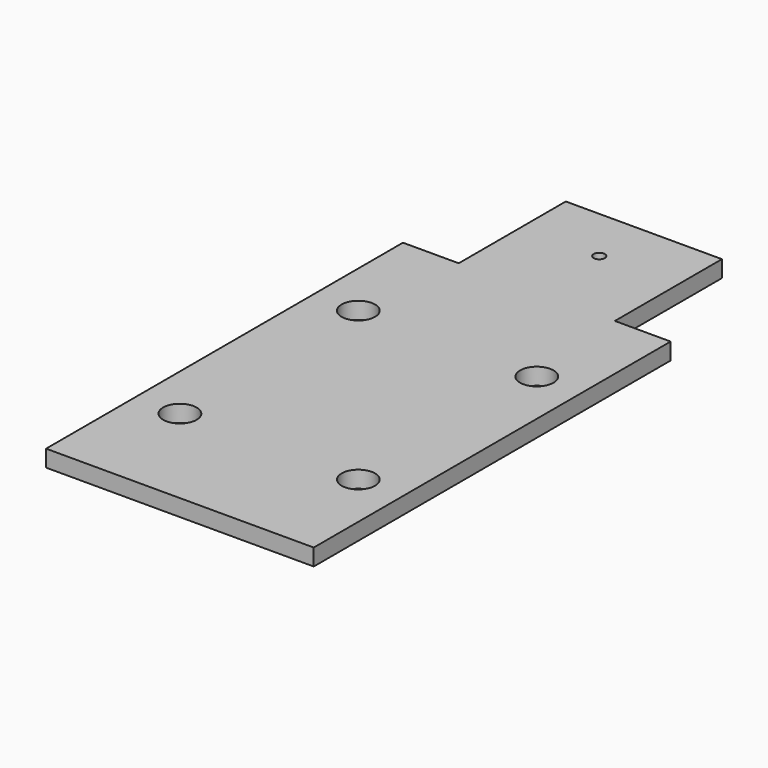
from build123d import *

# Parameters (mm, degrees)
F0_W     = 152.4
F0_H     = 254
F0_R     = 9.525
F1_DEPTH = 9.525
F2_W     = 88.9
F2_H     = 9.525
F3_DEPTH = 76.2
F4_R     = 3.175
F5_DEPTH = 9.526


with BuildPart() as f1:
    # F0 (on Top) → F1 (new body)
    with BuildSketch(Plane.XY):
        Rectangle(F0_W, F0_H)
        with Locations((-50.8, -63.5)):
            Circle(F0_R, mode=Mode.SUBTRACT)
        with Locations((50.8, -63.5)):
            Circle(F0_R, mode=Mode.SUBTRACT)
        with Locations((-50.8, 63.5)):
            Circle(F0_R, mode=Mode.SUBTRACT)
        with Locations((50.8, 63.5)):
            Circle(F0_R, mode=Mode.SUBTRACT)
    extrude(amount=F1_DEPTH)

    # F2 (on face) → F3 (join)
    with BuildSketch(Plane(origin=(0, 127, 0), x_dir=(-1, 0, 0), z_dir=(0, 1, 0))):
        with Locations((0, 4.7625)):
            Rectangle(F2_W, F2_H)
    extrude(amount=F3_DEPTH)

    # F4 (on face) → F5 (cut, through all)
    with BuildSketch(Plane.XY.offset(9.525)):
        with Locations((0, 171.45)):
            Circle(F4_R)
    extrude(amount=-F5_DEPTH, mode=Mode.SUBTRACT)


solid = f1.part
